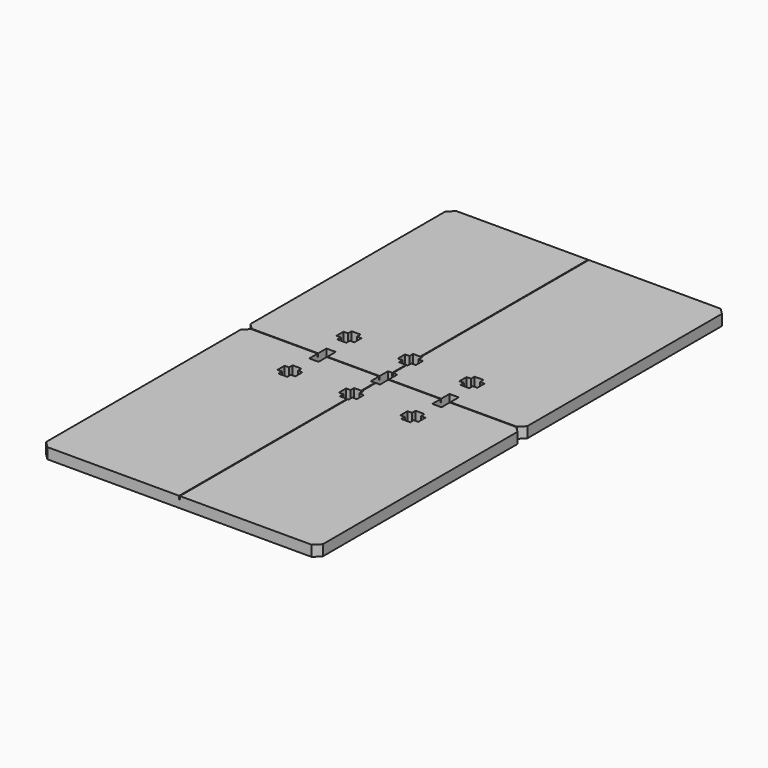
from build123d import *

# Parameters (mm, degrees)
PAD011_DEPTH           = 3.5
POCKET_DEPTH           = 1
SKETCH_W               = 3
SKETCH_H               = 7
POCKET024_DEPTH        = 3.501
LINEARPATTERN001_COUNT = 3
LINEARPATTERN001_PITCH = 20


with BuildPart() as part:
    # Sketch030 (on Face1 of Binder) → Pad011 (new body)
    with BuildSketch(Plane(origin=(0, 0, -1.5), x_dir=(1, 0, 0), z_dir=(0, 0, -1))):
        Polygon((17.648, -218.84), (19.648, -220.84), (105.648, -220.84), (107.648, -218.84), (107.648, -139.715), (105.648, -137.715), (107.648, -135.715), (107.648, -56.59), (105.648, -54.59), (19.648, -54.59), (17.648, -56.59), (17.648, -135.715), (19.648, -137.715), (17.648, -139.715), align=None)
    extrude(amount=-PAD011_DEPTH)

    # Sketch034 (on Face4 of Pad011) → Pocket (cut)
    with BuildSketch(Plane.XY.offset(2)):
        Polygon((19.523, 137.84), (62.523, 137.84), (62.523, 220.84), (62.773, 220.84), (62.773, 137.84), (105.773, 137.84), (105.773, 137.59), (62.773, 137.59), (62.773, 54.59), (62.523, 54.59), (62.523, 137.59), (19.523, 137.59), align=None)
    extrude(amount=-POCKET_DEPTH, mode=Mode.SUBTRACT)

    # Sketch (on Face4 of Clone001) → Pocket024 (cut, through all)
    with BuildSketch(Plane.XY.offset(2)):
        with Locations((42.648, 137.715)):
            Rectangle(SKETCH_W, SKETCH_H)
        Polygon((40.198, 152.615), (43.098, 152.615), (43.098, 151.165), (44.548, 151.165), (44.548, 148.265), (43.098, 148.265), (43.098, 146.815), (40.198, 146.815), (40.198, 148.265), (38.748, 148.265), (38.748, 151.165), (40.198, 151.165), align=None)
        Polygon((40.198, 122.815), (43.098, 122.815), (43.098, 124.265), (44.548, 124.265), (44.548, 127.165), (43.098, 127.165), (43.098, 128.615), (40.198, 128.615), (40.198, 127.165), (38.748, 127.165), (38.748, 124.265), (40.198, 124.265), align=None)
    pocket024 = extrude(amount=-POCKET024_DEPTH, mode=Mode.SUBTRACT)

    # LinearPattern001: Pocket024 ×3
    with Locations(*[(i * LINEARPATTERN001_PITCH, 0, 0) for i in range(1, LINEARPATTERN001_COUNT)]):
        add(pocket024, mode=Mode.SUBTRACT)


with BuildPart() as part_1:
    # Body010 placement: moved
    add(part.part.moved(Location((204.403, 0, 0))))


solid = part_1.part
